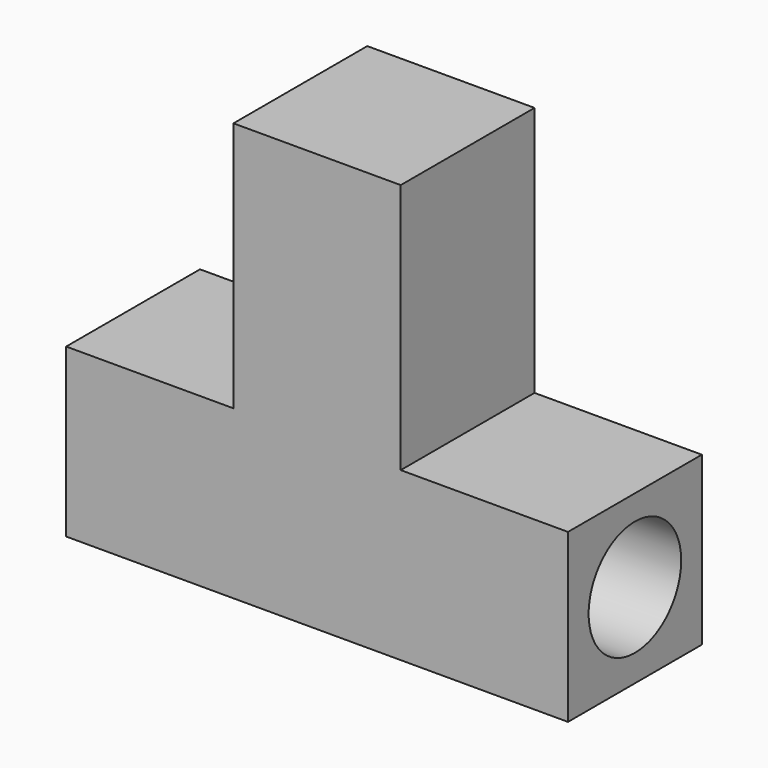
from build123d import *

# Parameters (mm, degrees)
F0_W     = 12
F0_H     = 12
F1_DEPTH = 30
F2_DEPTH = 12
F3_R     = 4.15
F4_DEPTH = 45


with BuildPart() as f1:
    # F0 (on Top) → F1 (new body)
    with BuildSketch(Plane.XY):
        Rectangle(F0_W, F0_H)
    extrude(amount=F1_DEPTH)

    # F0 (on Top) → F2 (join)
    with BuildSketch(Plane.XY):
        with Locations((-12, 0)):
            Rectangle(F0_W, F0_H)
        with Locations((12, 0)):
            Rectangle(F0_W, F0_H)
    extrude(amount=F2_DEPTH)

    # F3 (on face) → F4 (cut)
    with BuildSketch(Plane.YZ.offset(18)):
        with Locations((0, 6.070589)):
            Circle(F3_R)
    extrude(amount=-F4_DEPTH, mode=Mode.SUBTRACT)


solid = f1.part
